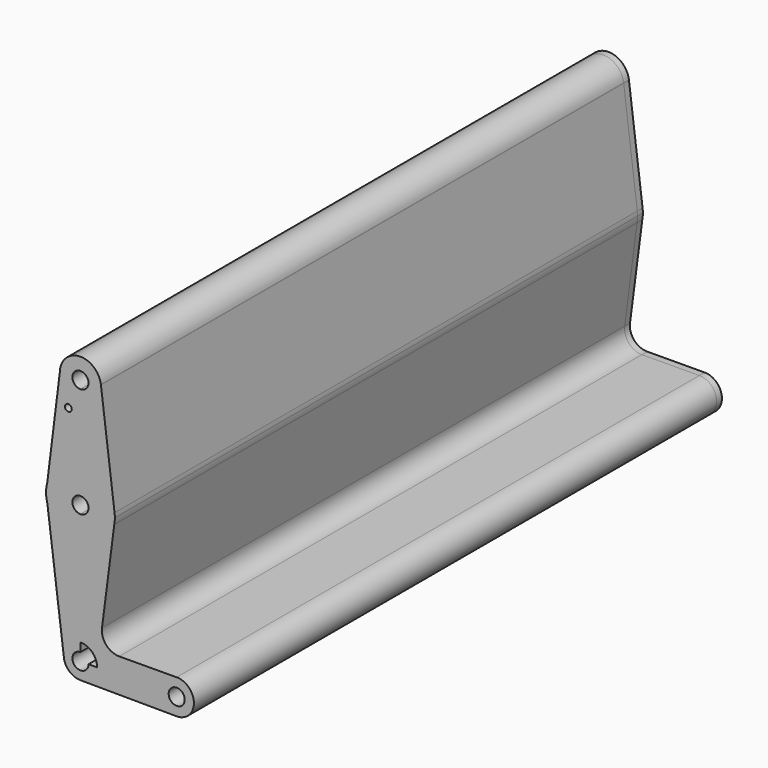
from build123d import *

# Parameters (mm, degrees)
F0_R     = 1.5875
F1_DEPTH = 304.8
F2_DEPTH = 3.048


with BuildPart() as f1:
    # F0 (on Front) → F1 (new body)
    with BuildSketch(Plane.XZ):
        with BuildLine():
            ThreePointArc((-9.5087361881, 114.5500842279), (-6.7736614446, 107.7168608946), (0.0150512367, 104.873103678))
            ThreePointArc((0.0150512367, 104.873103678), (6.7502433275, 107.6629115872), (9.5400512367, 114.398103678))
            ThreePointArc((9.5400512367, 114.398103678), (9.5239073745, 114.9524320558), (9.4755305122, 115.5048813783))
            Line((9.4755305122, 115.5048813783), (9.4543958033, 115.6726228626))
            ThreePointArc((9.4543958033, 115.6726228626), (-0.5478038918, 123.906458904), (-9.5087361881, 114.5500842279))
        make_face()
        with BuildLine():
            ThreePointArc((3.7306455777, 114.398103678), (2.6423731913, 111.7707817234), (0.0150512367, 110.682509337))
            ThreePointArc((0.0150512367, 110.682509337), (-2.612270718, 117.0254256327), (3.7306455777, 114.398103678))
        make_face(mode=Mode.SUBTRACT)
        with BuildLine():
            ThreePointArc((9.5400512367, 114.398103678), (6.7502433275, 107.6629115872), (0.0150512367, 104.873103678))
            Line((0.0150512367, 104.873103678), (0.0150512367, 79.473103678))
            ThreePointArc((0.0150512367, 79.473103678), (10.515332529, 75.5043926793), (15.7655247688, 65.5825956822))
            Line((15.7655247688, 65.5825956822), (9.4755305122, 115.5048813783))
            ThreePointArc((9.4755305122, 115.5048813783), (9.5239073745, 114.9524320558), (9.5400512367, 114.398103678))
        make_face()
        with BuildLine():
            Line((0.0150512367, 79.473103678), (0.0150512367, 104.873103678))
            ThreePointArc((0.0150512367, 104.873103678), (-6.7736614446, 107.7168608946), (-9.5087361881, 114.5500842279))
            Line((-9.5087361881, 114.5500842279), (-15.3173007855, 67.7132715322))
            ThreePointArc((-15.3173007855, 67.7132715322), (-9.6464014314, 76.1946094373), (0.0150512367, 79.473103678))
        make_face()
        with Locations((-5.5867941119, 101.2973338366)):
            Circle(F0_R, mode=Mode.SUBTRACT)
        with BuildLine():
            ThreePointArc((15.7655247688, 65.5825956822), (10.515332529, 75.5043926793), (0.0150512367, 79.473103678))
            Line((0.0150512367, 79.473103678), (0.0150512367, 67.313698019))
            ThreePointArc((0.0150512367, 67.313698019), (2.6423731913, 66.2254256327), (3.7306455777, 63.598103678))
            ThreePointArc((3.7306455777, 63.598103678), (2.6423731913, 60.9707817234), (0.0150512367, 59.882509337))
            Line((0.0150512367, 59.882509337), (0.0150512367, 47.723103678))
            ThreePointArc((0.0150512367, 47.723103678), (10.1844966564, 51.4080255464), (15.6328571229, 60.7520951923))
            ThreePointArc((15.6328571229, 60.7520951923), (15.8256219639, 62.1693005851), (15.8900512367, 63.598103678))
            ThreePointArc((15.8900512367, 63.598103678), (15.8588890344, 64.5923012635), (15.7655247688, 65.5825956822))
        make_face()
        with BuildLine():
            Line((0.0150512367, 67.313698019), (0.0150512367, 79.473103678))
            ThreePointArc((0.0150512367, 79.473103678), (-9.6464014314, 76.1946094373), (-15.3173007855, 67.7132715322))
            Line((-15.3173007855, 67.7132715322), (-15.8580556591, 63.3529456192))
            ThreePointArc((-15.8580556591, 63.3529456192), (-15.6952207307, 61.3170995766), (-15.2723604957, 59.3190071001))
            ThreePointArc((-15.2723604957, 59.3190071001), (-9.5788261553, 50.9500547539), (0.0150512367, 47.723103678))
            Line((0.0150512367, 47.723103678), (0.0150512367, 59.882509337))
            ThreePointArc((0.0150512367, 59.882509337), (-3.7005431043, 63.598103678), (0.0150512367, 67.313698019))
        make_face()
        with BuildLine():
            Line((-15.8580556591, 63.3529456192), (-15.3173007855, 67.7132715322))
            ThreePointArc((-15.3173007855, 67.7132715322), (-15.7392585574, 65.5519071258), (-15.8580556591, 63.3529456192))
        make_face()
        with BuildLine():
            ThreePointArc((9.4755305122, 115.5048813783), (9.4653353392, 115.5887990138), (9.4543958033, 115.6726228626))
            Line((9.4543958033, 115.6726228626), (9.4755305122, 115.5048813783))
        make_face()
        with BuildLine():
            ThreePointArc((15.6328571229, 60.7520951923), (10.1844966564, 51.4080255464), (0.0150512367, 47.723103678))
            Line((0.0150512367, 47.723103678), (0.0150512367, 7.8061611912))
            ThreePointArc((0.0150512367, 7.8061611912), (5.465470974, 5.5485234153), (7.7231087498, 0.098103678))
            Line((7.7231087498, 0.098103678), (36.5275512367, 0.098103678))
            ThreePointArc((36.5275512367, 0.098103678), (38.8379175893, 5.6962527618), (44.4240610104, 8.035497838))
            Line((44.4240610104, 8.035497838), (17.8821128526, 7.8984301254))
            ThreePointArc((17.8821128526, 7.8984301254), (11.8832927191, 10.5844264427), (9.9565419968, 16.8683782937))
            Line((9.9565419968, 16.8683782937), (15.6328571229, 60.7520951923))
        make_face()
        with BuildLine():
            Line((0.0150512367, 7.8061611912), (0.0150512367, 47.723103678))
            ThreePointArc((0.0150512367, 47.723103678), (-9.5788261553, 50.9500547539), (-15.2723604957, 59.3190071001))
            Line((-15.2723604957, 59.3190071001), (-7.6316439952, -0.8725675623))
            ThreePointArc((-7.6316439952, -0.8725675623), (-5.7683794222, 5.1937960196), (0.0150512367, 7.8061611912))
        make_face()
        with BuildLine():
            Line((0.0150512367, 3.813698019), (0.0150512367, 7.8061611912))
            ThreePointArc((0.0150512367, 7.8061611912), (-5.7683794222, 5.1937960196), (-7.6316439952, -0.8725675623))
            ThreePointArc((-7.6316439952, -0.8725675623), (-5.0862852236, -5.6803491378), (0, -7.6099391401))
            ThreePointArc((0, -7.6099391401), (5.460146958, -5.3576348799), (7.7231087498, 0.098103678))
            Line((7.7231087498, 0.098103678), (3.7306455777, 0.098103678))
            ThreePointArc((3.7306455777, 0.098103678), (-2.612270718, -2.5292182766), (0.0150512367, 3.813698019))
        make_face()
        with BuildLine():
            Line((36.5275512367, 0.098103678), (7.7231087498, 0.098103678))
            ThreePointArc((7.7231087498, 0.098103678), (5.460146958, -5.3576348799), (0, -7.6099391401))
            Line((0, -7.6099391401), (44.4240722723, -7.8392905401))
            ThreePointArc((44.4240722723, -7.8392905401), (38.8379215607, -5.5000493978), (36.5275512367, 0.098103678))
        make_face()
        with BuildLine():
            ThreePointArc((44.4240610104, 8.035497838), (38.8379175893, 5.6962527618), (36.5275512367, 0.098103678))
            ThreePointArc((36.5275512367, 0.098103678), (38.8379215607, -5.5000493978), (44.4240722723, -7.8392905401))
            ThreePointArc((44.4240722723, -7.8392905401), (50.0632043125, -5.5290259979), (52.4025512367, 0.098103678))
            ThreePointArc((52.4025512367, 0.098103678), (50.0632003205, 5.7252373254), (44.4240610104, 8.035497838))
        make_face()
        with BuildLine():
            ThreePointArc((48.1806455777, 0.098103678), (44.4650512367, -3.617490663), (40.7494568957, 0.098103678))
            ThreePointArc((40.7494568957, 0.098103678), (44.4650512367, 3.813698019), (48.1806455777, 0.098103678))
        make_face(mode=Mode.SUBTRACT)
    extrude(amount=F1_DEPTH)


with BuildPart() as f2:
    # F0 (on Front) → F2 (new body)
    with BuildSketch(Plane.XZ):
        with BuildLine():
            ThreePointArc((-9.5087361881, 114.5500842279), (-6.7736614446, 107.7168608946), (0.0150512367, 104.873103678))
            ThreePointArc((0.0150512367, 104.873103678), (6.7502433275, 107.6629115872), (9.5400512367, 114.398103678))
            ThreePointArc((9.5400512367, 114.398103678), (9.5239073745, 114.9524320558), (9.4755305122, 115.5048813783))
            Line((9.4755305122, 115.5048813783), (9.4543958033, 115.6726228626))
            ThreePointArc((9.4543958033, 115.6726228626), (-0.5478038918, 123.906458904), (-9.5087361881, 114.5500842279))
        make_face()
        with BuildLine():
            ThreePointArc((3.7306455777, 114.398103678), (2.6423731913, 111.7707817234), (0.0150512367, 110.682509337))
            ThreePointArc((0.0150512367, 110.682509337), (-2.612270718, 117.0254256327), (3.7306455777, 114.398103678))
        make_face(mode=Mode.SUBTRACT)
        with BuildLine():
            ThreePointArc((9.5400512367, 114.398103678), (6.7502433275, 107.6629115872), (0.0150512367, 104.873103678))
            Line((0.0150512367, 104.873103678), (0.0150512367, 79.473103678))
            ThreePointArc((0.0150512367, 79.473103678), (10.515332529, 75.5043926793), (15.7655247688, 65.5825956822))
            Line((15.7655247688, 65.5825956822), (9.4755305122, 115.5048813783))
            ThreePointArc((9.4755305122, 115.5048813783), (9.5239073745, 114.9524320558), (9.5400512367, 114.398103678))
        make_face()
        with BuildLine():
            Line((0.0150512367, 79.473103678), (0.0150512367, 104.873103678))
            ThreePointArc((0.0150512367, 104.873103678), (-6.7736614446, 107.7168608946), (-9.5087361881, 114.5500842279))
            Line((-9.5087361881, 114.5500842279), (-15.3173007855, 67.7132715322))
            ThreePointArc((-15.3173007855, 67.7132715322), (-9.6464014314, 76.1946094373), (0.0150512367, 79.473103678))
        make_face()
        with Locations((-5.5867941119, 101.2973338366)):
            Circle(F0_R, mode=Mode.SUBTRACT)
        with BuildLine():
            ThreePointArc((15.7655247688, 65.5825956822), (10.515332529, 75.5043926793), (0.0150512367, 79.473103678))
            Line((0.0150512367, 79.473103678), (0.0150512367, 67.313698019))
            ThreePointArc((0.0150512367, 67.313698019), (2.6423731913, 66.2254256327), (3.7306455777, 63.598103678))
            ThreePointArc((3.7306455777, 63.598103678), (2.6423731913, 60.9707817234), (0.0150512367, 59.882509337))
            Line((0.0150512367, 59.882509337), (0.0150512367, 47.723103678))
            ThreePointArc((0.0150512367, 47.723103678), (10.1844966564, 51.4080255464), (15.6328571229, 60.7520951923))
            ThreePointArc((15.6328571229, 60.7520951923), (15.8256219639, 62.1693005851), (15.8900512367, 63.598103678))
            ThreePointArc((15.8900512367, 63.598103678), (15.8588890344, 64.5923012635), (15.7655247688, 65.5825956822))
        make_face()
        with BuildLine():
            Line((0.0150512367, 67.313698019), (0.0150512367, 79.473103678))
            ThreePointArc((0.0150512367, 79.473103678), (-9.6464014314, 76.1946094373), (-15.3173007855, 67.7132715322))
            Line((-15.3173007855, 67.7132715322), (-15.8580556591, 63.3529456192))
            ThreePointArc((-15.8580556591, 63.3529456192), (-15.6952207307, 61.3170995766), (-15.2723604957, 59.3190071001))
            ThreePointArc((-15.2723604957, 59.3190071001), (-9.5788261553, 50.9500547539), (0.0150512367, 47.723103678))
            Line((0.0150512367, 47.723103678), (0.0150512367, 59.882509337))
            ThreePointArc((0.0150512367, 59.882509337), (-3.7005431043, 63.598103678), (0.0150512367, 67.313698019))
        make_face()
        with BuildLine():
            Line((-15.8580556591, 63.3529456192), (-15.3173007855, 67.7132715322))
            ThreePointArc((-15.3173007855, 67.7132715322), (-15.7392585574, 65.5519071258), (-15.8580556591, 63.3529456192))
        make_face()
        with BuildLine():
            ThreePointArc((9.4755305122, 115.5048813783), (9.4653353392, 115.5887990138), (9.4543958033, 115.6726228626))
            Line((9.4543958033, 115.6726228626), (9.4755305122, 115.5048813783))
        make_face()
        with BuildLine():
            ThreePointArc((15.6328571229, 60.7520951923), (10.1844966564, 51.4080255464), (0.0150512367, 47.723103678))
            Line((0.0150512367, 47.723103678), (0.0150512367, 7.8061611912))
            ThreePointArc((0.0150512367, 7.8061611912), (5.465470974, 5.5485234153), (7.7231087498, 0.098103678))
            Line((7.7231087498, 0.098103678), (36.5275512367, 0.098103678))
            ThreePointArc((36.5275512367, 0.098103678), (38.8379175893, 5.6962527618), (44.4240610104, 8.035497838))
            Line((44.4240610104, 8.035497838), (17.8821128526, 7.8984301254))
            ThreePointArc((17.8821128526, 7.8984301254), (11.8832927191, 10.5844264427), (9.9565419968, 16.8683782937))
            Line((9.9565419968, 16.8683782937), (15.6328571229, 60.7520951923))
        make_face()
        with BuildLine():
            Line((0.0150512367, 7.8061611912), (0.0150512367, 47.723103678))
            ThreePointArc((0.0150512367, 47.723103678), (-9.5788261553, 50.9500547539), (-15.2723604957, 59.3190071001))
            Line((-15.2723604957, 59.3190071001), (-7.6316439952, -0.8725675623))
            ThreePointArc((-7.6316439952, -0.8725675623), (-5.7683794222, 5.1937960196), (0.0150512367, 7.8061611912))
        make_face()
        with BuildLine():
            Line((0.0150512367, 3.813698019), (0.0150512367, 7.8061611912))
            ThreePointArc((0.0150512367, 7.8061611912), (-5.7683794222, 5.1937960196), (-7.6316439952, -0.8725675623))
            ThreePointArc((-7.6316439952, -0.8725675623), (-5.0862852236, -5.6803491378), (0, -7.6099391401))
            ThreePointArc((0, -7.6099391401), (5.460146958, -5.3576348799), (7.7231087498, 0.098103678))
            Line((7.7231087498, 0.098103678), (3.7306455777, 0.098103678))
            ThreePointArc((3.7306455777, 0.098103678), (-2.612270718, -2.5292182766), (0.0150512367, 3.813698019))
        make_face()
        with BuildLine():
            Line((36.5275512367, 0.098103678), (7.7231087498, 0.098103678))
            ThreePointArc((7.7231087498, 0.098103678), (5.460146958, -5.3576348799), (0, -7.6099391401))
            Line((0, -7.6099391401), (44.4240722723, -7.8392905401))
            ThreePointArc((44.4240722723, -7.8392905401), (38.8379215607, -5.5000493978), (36.5275512367, 0.098103678))
        make_face()
        with BuildLine():
            ThreePointArc((44.4240610104, 8.035497838), (38.8379175893, 5.6962527618), (36.5275512367, 0.098103678))
            ThreePointArc((36.5275512367, 0.098103678), (38.8379215607, -5.5000493978), (44.4240722723, -7.8392905401))
            ThreePointArc((44.4240722723, -7.8392905401), (50.0632043125, -5.5290259979), (52.4025512367, 0.098103678))
            ThreePointArc((52.4025512367, 0.098103678), (50.0632003205, 5.7252373254), (44.4240610104, 8.035497838))
        make_face()
        with BuildLine():
            ThreePointArc((48.1806455777, 0.098103678), (44.4650512367, -3.617490663), (40.7494568957, 0.098103678))
            ThreePointArc((40.7494568957, 0.098103678), (44.4650512367, 3.813698019), (48.1806455777, 0.098103678))
        make_face(mode=Mode.SUBTRACT)
    extrude(amount=F2_DEPTH)


solid = Compound([f1.part, f2.part])
